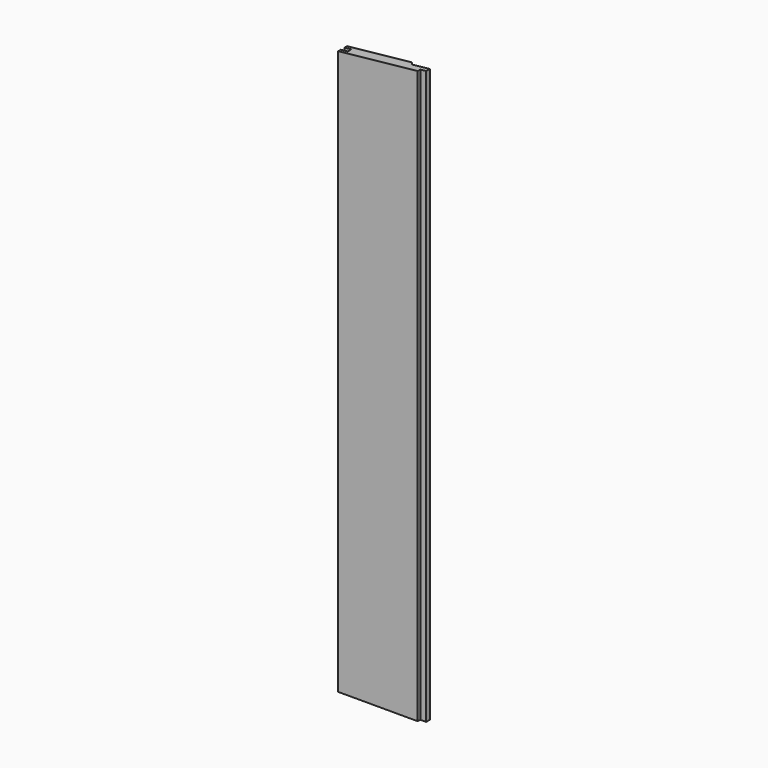
from build123d import *

# Parameters (mm, degrees)
F1_DEPTH = 1100
F3_DEPTH = 19.001


with BuildPart() as f1:
    # F0 (on Top) → F1 (new body)
    with BuildSketch(Plane.XY):
        Polygon((0, -4), (0, -9.5), (136, -9.5), (136, -4), (146, -4), (146, 4), (116, 4), (110.5, 9.5), (0, 9.5), (0, 4), (12, 4), (12, -4), align=None)
    extrude(amount=F1_DEPTH)

    # F2 (on face) → F3 (cut, through all)
    with BuildSketch(Plane(origin=(0, 9.5, 0), x_dir=(-1, 0, 0), z_dir=(0, 1, 0))):
        Polygon((-110.5, 1100), (-1288.1546681334, 1100), (-110.5, 976.2235066988), align=None)
        Polygon((0, 1100), (0, 964.6094887019), (139, 950), (139, 1100), align=None)
        Polygon((-110.5, 1100), (-110.5, 976.2235066988), (0, 964.6094887019), (0, 1100), align=None)
    extrude(amount=-F3_DEPTH, mode=Mode.SUBTRACT)


solid = f1.part
